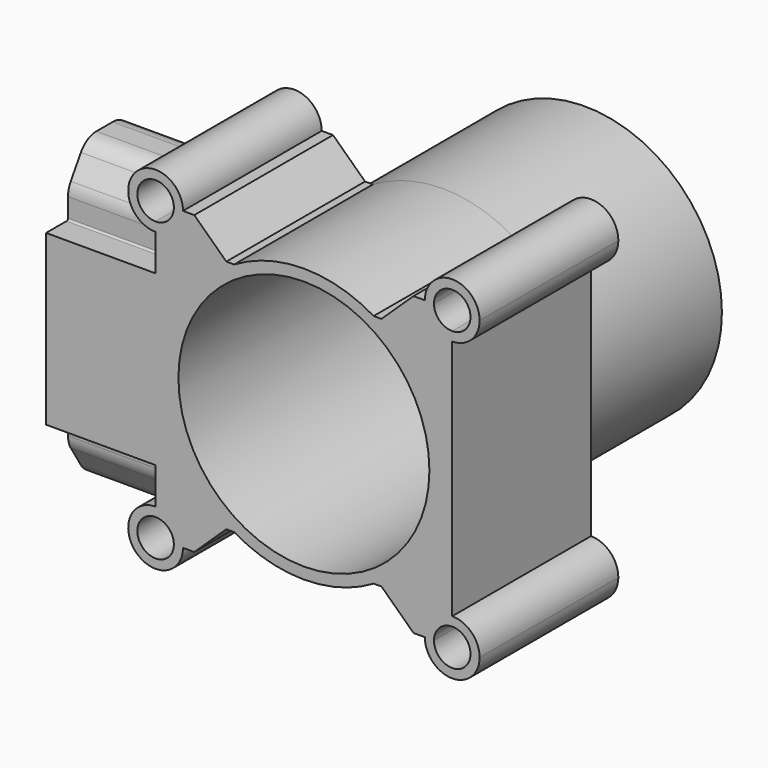
from build123d import *

# Parameters (mm, degrees)
F0_R      = 30
F0_R_2    = 27.5
F1_DEPTH  = 38
F3_R      = 30
F3_R_2    = 27.5
F4_DEPTH  = 40
F6_W      = 24
F6_H      = 32
F7_DEPTH  = 65
F9_DEPTH  = 24
F10_DEPTH = 38
F12_DEPTH = 38
F13_R     = 4
F14_DEPTH = 38


with BuildPart() as f1:
    # F0 (on Front) → F1 (new body)
    with BuildSketch(Plane.XZ):
        with BuildLine():
            ThreePointArc((-32.5, 26.5), (-28.2573593129, 28.2573593129), (-26.5, 32.5))
            Line((-26.5, 32.5), (-28.5, 32.5))
            ThreePointArc((-28.5, 32.5), (-29.6715728753, 29.6715728753), (-32.5, 28.5))
            Line((-32.5, 28.5), (-32.5, 26.5))
        make_face()
        with BuildLine():
            Line((-28.5, 32.5), (-26.5, 32.5))
            ThreePointArc((-26.5, 32.5), (-36.7426406871, 36.7426406871), (-32.5, 26.5))
            Line((-32.5, 26.5), (-32.5, 28.5))
            ThreePointArc((-32.5, 28.5), (-35.3284271247, 35.3284271247), (-28.5, 32.5))
        make_face()
        with BuildLine():
            Line((26.5, 32.5), (-26.5, 32.5))
            ThreePointArc((-26.5, 32.5), (-28.2573593129, 28.2573593129), (-32.5, 26.5))
            Line((-32.5, 26.5), (-32.5, -26.5))
            ThreePointArc((-32.5, -26.5), (-28.2573593129, -28.2573593129), (-26.5, -32.5))
            Line((-26.5, -32.5), (26.5, -32.5))
            ThreePointArc((26.5, -32.5), (28.2573593129, -28.2573593129), (32.5, -26.5))
            Line((32.5, -26.5), (32.5, 26.5))
            ThreePointArc((32.5, 26.5), (28.2573593129, 28.2573593129), (26.5, 32.5))
        make_face()
        Circle(F0_R, mode=Mode.SUBTRACT)
        with BuildLine():
            ThreePointArc((38.5, 32.5), (32.5, 38.5), (26.5, 32.5))
            Line((26.5, 32.5), (28.5, 32.5))
            ThreePointArc((28.5, 32.5), (32.5, 36.5), (36.5, 32.5))
            ThreePointArc((36.5, 32.5), (35.3284271247, 29.6715728753), (32.5, 28.5))
            Line((32.5, 28.5), (32.5, 26.5))
            ThreePointArc((32.5, 26.5), (36.7426406871, 28.2573593129), (38.5, 32.5))
        make_face()
        with BuildLine():
            Line((28.5, 32.5), (26.5, 32.5))
            ThreePointArc((26.5, 32.5), (28.2573593129, 28.2573593129), (32.5, 26.5))
            Line((32.5, 26.5), (32.5, 28.5))
            ThreePointArc((32.5, 28.5), (29.6715728753, 29.6715728753), (28.5, 32.5))
        make_face()
        with BuildLine():
            ThreePointArc((-26.5, -32.5), (-28.2573593129, -28.2573593129), (-32.5, -26.5))
            Line((-32.5, -26.5), (-32.5, -28.5))
            ThreePointArc((-32.5, -28.5), (-29.6715728753, -29.6715728753), (-28.5, -32.5))
            Line((-28.5, -32.5), (-26.5, -32.5))
        make_face()
        with BuildLine():
            Line((-32.5, -28.5), (-32.5, -26.5))
            ThreePointArc((-32.5, -26.5), (-36.7426406871, -36.7426406871), (-26.5, -32.5))
            Line((-26.5, -32.5), (-28.5, -32.5))
            ThreePointArc((-28.5, -32.5), (-35.3284271247, -35.3284271247), (-32.5, -28.5))
        make_face()
        with BuildLine():
            ThreePointArc((38.5, -32.5), (36.7426406871, -28.2573593129), (32.5, -26.5))
            Line((32.5, -26.5), (32.5, -28.5))
            ThreePointArc((32.5, -28.5), (35.3284271247, -29.6715728753), (36.5, -32.5))
            ThreePointArc((36.5, -32.5), (32.5, -36.5), (28.5, -32.5))
            Line((28.5, -32.5), (26.5, -32.5))
            ThreePointArc((26.5, -32.5), (32.5, -38.5), (38.5, -32.5))
        make_face()
        with BuildLine():
            Line((32.5, -28.5), (32.5, -26.5))
            ThreePointArc((32.5, -26.5), (28.2573593129, -28.2573593129), (26.5, -32.5))
            Line((26.5, -32.5), (28.5, -32.5))
            ThreePointArc((28.5, -32.5), (29.6715728753, -29.6715728753), (32.5, -28.5))
        make_face()
        Circle(F0_R)
        Circle(F0_R_2, mode=Mode.SUBTRACT)
    extrude(amount=F1_DEPTH)

    # F3 (on offset) → F4 (join)
    with BuildSketch(Plane.XZ.offset(1)):
        Circle(F3_R)
        Circle(F3_R_2, mode=Mode.SUBTRACT)
    extrude(amount=-F4_DEPTH)

    # F6 (on offset) → F7 (join)
    with BuildSketch(Plane.XY.offset(-32.5)):
        with Locations((-44.5, -22)):
            Rectangle(F6_W, F6_H)
    extrude(amount=F7_DEPTH)

    # F8 (on face) → F9 (cut)
    with BuildSketch(Plane(origin=(-56.5, 0, 0), x_dir=(0, -1, 0), z_dir=(-1, 0, 0))):
        with BuildLine():
            Line((11.5996693186, -18.5), (6, -18.5))
            Line((6, -18.5), (6, -32.5))
            Line((6, -32.5), (19.7712382075, -32.5))
            ThreePointArc((19.7712382075, -32.5), (17.3473955456, -31.8732124062), (15.5312466875, -30.1499947))
            Line((15.5312466875, -30.1499947), (12.76000848, -25.716013568))
            ThreePointArc((12.76000848, -25.716013568), (12.1937562692, -24.4444314332), (12, -23.0660188679))
            Line((12, -23.0660188679), (12, -18.9003306814))
            ThreePointArc((12, -18.9003306814), (11.8827458581, -18.6172541419), (11.5996693186, -18.5))
        make_face()
        with BuildLine():
            ThreePointArc((28.4687533125, -30.1499947), (26.6526044544, -31.8732124062), (24.2287617925, -32.5))
            Line((24.2287617925, -32.5), (38, -32.5))
            Line((38, -32.5), (38, -18.5))
            Line((38, -18.5), (32.4003306814, -18.5))
            ThreePointArc((32.4003306814, -18.5), (32.1172541419, -18.6172541419), (32, -18.9003306814))
            Line((32, -18.9003306814), (32, -23.0660188679))
            ThreePointArc((32, -23.0660188679), (31.8062437308, -24.4444314332), (31.23999152, -25.716013568))
            Line((31.23999152, -25.716013568), (28.4687533125, -30.1499947))
        make_face()
        with BuildLine():
            Line((19.7712382075, 32.5), (6, 32.5))
            Line((6, 32.5), (6, 18.5))
            Line((6, 18.5), (11.5996693186, 18.5))
            ThreePointArc((11.5996693186, 18.5), (11.8827458581, 18.6172541419), (12, 18.9003306814))
            Line((12, 18.9003306814), (12, 23.0660188679))
            ThreePointArc((12, 23.0660188679), (12.1937562692, 24.4444314332), (12.76000848, 25.716013568))
            Line((12.76000848, 25.716013568), (15.5312466875, 30.1499947))
            ThreePointArc((15.5312466875, 30.1499947), (17.3473955456, 31.8732124062), (19.7712382075, 32.5))
        make_face()
        with BuildLine():
            Line((38, 32.5), (24.2287617925, 32.5))
            ThreePointArc((24.2287617925, 32.5), (26.6526044544, 31.8732124062), (28.4687533125, 30.1499947))
            Line((28.4687533125, 30.1499947), (31.23999152, 25.716013568))
            ThreePointArc((31.23999152, 25.716013568), (31.8062437308, 24.4444314332), (32, 23.0660188679))
            Line((32, 23.0660188679), (32, 18.9003306814))
            ThreePointArc((32, 18.9003306814), (32.1172541419, 18.6172541419), (32.4003306814, 18.5))
            Line((32.4003306814, 18.5), (38, 18.5))
            Line((38, 18.5), (38, 32.5))
        make_face()
    extrude(amount=-F9_DEPTH, mode=Mode.SUBTRACT)

    # F0 (on Front) → F10 (join)
    with BuildSketch(Plane.XZ):
        with BuildLine():
            ThreePointArc((38.5, 32.5), (32.5, 38.5), (26.5, 32.5))
            Line((26.5, 32.5), (28.5, 32.5))
            ThreePointArc((28.5, 32.5), (32.5, 36.5), (36.5, 32.5))
            ThreePointArc((36.5, 32.5), (35.3284271247, 29.6715728753), (32.5, 28.5))
            Line((32.5, 28.5), (32.5, 26.5))
            ThreePointArc((32.5, 26.5), (36.7426406871, 28.2573593129), (38.5, 32.5))
        make_face()
        with BuildLine():
            Line((-28.5, 32.5), (-26.5, 32.5))
            ThreePointArc((-26.5, 32.5), (-36.7426406871, 36.7426406871), (-32.5, 26.5))
            Line((-32.5, 26.5), (-32.5, 28.5))
            ThreePointArc((-32.5, 28.5), (-35.3284271247, 35.3284271247), (-28.5, 32.5))
        make_face()
        with BuildLine():
            ThreePointArc((38.5, -32.5), (36.7426406871, -28.2573593129), (32.5, -26.5))
            Line((32.5, -26.5), (32.5, -28.5))
            ThreePointArc((32.5, -28.5), (35.3284271247, -29.6715728753), (36.5, -32.5))
            ThreePointArc((36.5, -32.5), (32.5, -36.5), (28.5, -32.5))
            Line((28.5, -32.5), (26.5, -32.5))
            ThreePointArc((26.5, -32.5), (32.5, -38.5), (38.5, -32.5))
        make_face()
        with BuildLine():
            Line((-32.5, -28.5), (-32.5, -26.5))
            ThreePointArc((-32.5, -26.5), (-36.7426406871, -36.7426406871), (-26.5, -32.5))
            Line((-26.5, -32.5), (-28.5, -32.5))
            ThreePointArc((-28.5, -32.5), (-35.3284271247, -35.3284271247), (-32.5, -28.5))
        make_face()
    extrude(amount=F10_DEPTH)

    # F11 (on face) → F12 (cut)
    with BuildSketch(Plane(origin=(0, 0, 0), x_dir=(-1, 0, 0), z_dir=(0, 1, 0))):
        with BuildLine():
            Line((24.019457768, 32.5), (-24.019457768, 32.5))
            Line((-24.019457768, 32.5), (-17, 25.8134707125))
            Line((-17, 25.8134707125), (-15.2860959625, 25.8134707125))
            ThreePointArc((-15.2860959625, 25.8134707125), (0, 30), (15.2860959625, 25.8134707125))
            Line((15.2860959625, 25.8134707125), (17, 25.8134707125))
            Line((17, 25.8134707125), (24.019457768, 32.5))
        make_face()
        with BuildLine():
            Line((-17, -25.8134707125), (-24.019457768, -32.5))
            Line((-24.019457768, -32.5), (24.019457768, -32.5))
            Line((24.019457768, -32.5), (17, -25.8134707125))
            Line((17, -25.8134707125), (15.2860959625, -25.8134707125))
            ThreePointArc((15.2860959625, -25.8134707125), (0, -30), (-15.2860959625, -25.8134707125))
            Line((-15.2860959625, -25.8134707125), (-17, -25.8134707125))
        make_face()
    extrude(amount=-F12_DEPTH, mode=Mode.SUBTRACT)

    # F13 (on face) → F14 (cut)
    with BuildSketch(Plane.XZ.offset(38)):
        with Locations((-32.5, 32.5)):
            Circle(F13_R)
        with Locations((-32.5, -32.5)):
            Circle(F13_R)
    extrude(amount=-F14_DEPTH, mode=Mode.SUBTRACT)


solid = f1.part
